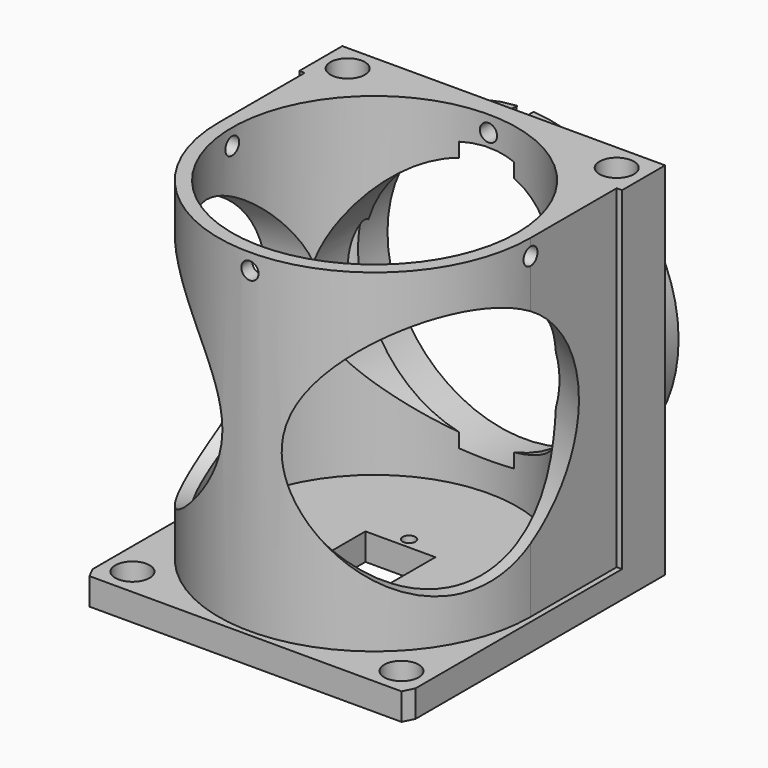
from build123d import *

# Parameters (mm, degrees)
PAD_DEPTH            = 67
SKETCH002_R          = 25.6
POCKET001_DEPTH      = 4
POCKET001_DEPTH_BACK = -100
SKETCH003_R          = 23
POCKET002_DEPTH      = 30
SKETCH004_R          = 23
POCKET003_DEPTH      = 29
SKETCH001_R          = 26.5
POCKET_DEPTH         = 62
SKETCH005_R          = 3.2
SKETCH005_R_2        = 1.2
SKETCH005_W          = 13
SKETCH005_H          = 24
POCKET004_DEPTH      = 67.001
POCKET005_DEPTH      = 62
SKETCH007_R          = 1.6
POCKET006_DEPTH      = 65.001
SKETCH008_R          = 1.6
POCKET007_DEPTH      = 60.001
SKETCH009_R          = 23
POCKET008_DEPTH      = 29
POCKET009_DEPTH      = 5


with BuildPart() as part:
    # Sketch → Pad (new body)
    with BuildSketch(Plane.XY):
        Polygon((-30, 35), (30, 35), (30, -28), (29, -30), (-29, -30), (-30, -28), align=None)
    extrude(amount=PAD_DEPTH)

    # Sketch002 → Pocket001 (cut, two sides)
    with BuildSketch(Plane(origin=(0, 30, 0), x_dir=(-1, 0, 0), z_dir=(0, 1, 0))) as pocket001_sk:
        with Locations((0, 36)):
            Circle(SKETCH002_R)
    extrude(amount=-POCKET001_DEPTH, mode=Mode.SUBTRACT)
    extrude(pocket001_sk.sketch, amount=-POCKET001_DEPTH_BACK, mode=Mode.SUBTRACT)

    # Sketch003 (on Face1 of Pocket001) → Pocket002 (cut)
    with BuildSketch(Plane(origin=(0, 35, 0), x_dir=(-1, 0, 0), z_dir=(0, 1, 0))):
        with Locations((0, 36)):
            Circle(SKETCH003_R)
    extrude(amount=-POCKET002_DEPTH, mode=Mode.SUBTRACT)

    # Sketch004 (on Face8 of Pocket002) → Pocket003 (cut)
    with BuildSketch(Plane(origin=(35.2, -17.6, 0), x_dir=(0.447214, 0.894427, 0), z_dir=(0.894427, -0.447214, 0))):
        with Locations((0, 36)):
            Circle(SKETCH004_R)
    extrude(amount=-POCKET003_DEPTH, mode=Mode.SUBTRACT)

    # Sketch001 (on Face4 of Pocket003) → Pocket (cut)
    with BuildSketch(Plane.XY.offset(67)):
        Circle(SKETCH001_R)
    extrude(amount=-POCKET_DEPTH, mode=Mode.SUBTRACT)

    # Sketch005 (on Face4 of Pocket) → Pocket004 (cut, through all)
    with BuildSketch(Plane.XY.offset(67)):
        with Locations((-25, 25)):
            Circle(SKETCH005_R)
        with Locations((25, 25)):
            Circle(SKETCH005_R)
        with Locations((25, -25)):
            Circle(SKETCH005_R)
        with Locations((-25, -25)):
            Circle(SKETCH005_R)
        with Locations((0, -20)):
            Circle(SKETCH005_R_2)
        with Locations((0, 8)):
            Circle(SKETCH005_R_2)
        with Locations((0, -6)):
            Rectangle(SKETCH005_W, SKETCH005_H)
    extrude(amount=-POCKET004_DEPTH, mode=Mode.SUBTRACT)

    # Sketch006 (on Face4 of Pocket004) → Pocket005 (cut)
    with BuildSketch(Plane.XY.offset(67)):
        with BuildLine():
            ThreePointArc((-29, 0), (0, -29), (29, 0))
            Line((29, 0), (29, 20))
            Line((29, 20), (31, 20))
            Line((31, -31), (31, 20))
            Line((-31, -31), (31, -31))
            Line((-31, 20), (-31, -31))
            Line((-29, 20), (-31, 20))
            Line((-29, 0), (-29, 20))
        make_face()
    extrude(amount=-POCKET005_DEPTH, mode=Mode.SUBTRACT)

    # Sketch007 (on Face1 of Pocket005) → Pocket006 (cut, through all)
    with BuildSketch(Plane(origin=(0, 35, 0), x_dir=(-1, 0, 0), z_dir=(0, 1, 0))):
        with Locations((0, 64)):
            Circle(SKETCH007_R)
    extrude(amount=-POCKET006_DEPTH, mode=Mode.SUBTRACT)

    # Sketch008 (on Face5 of Pocket006) → Pocket007 (cut, through all)
    with BuildSketch(Plane.YZ.offset(30)):
        with Locations((0, 64)):
            Circle(SKETCH008_R)
    extrude(amount=-POCKET007_DEPTH, mode=Mode.SUBTRACT)

    # Sketch009 (on Face7 of Pocket003) → Pocket008 (cut)
    with BuildSketch(Plane(origin=(-35.2, -17.6, 0), x_dir=(0.447214, -0.894427, 0), z_dir=(-0.894427, -0.447214, 0))):
        with Locations((0, 36)):
            Circle(SKETCH009_R)
    extrude(amount=-POCKET008_DEPTH, mode=Mode.SUBTRACT)

    # Sketch010 (on Face1 of Pocket008) → Pocket009 (cut)
    with BuildSketch(Plane(origin=(0, 35, 0), x_dir=(-1, 0, 0), z_dir=(0, 1, 0))):
        with BuildLine():
            ThreePointArc((13, 10.637626), (0, 64.5), (-13, 10.637626))
            Line((-13, 10.637626), (-13, 0))
            Line((-35, 0), (-13, 0))
            Line((-35, 70), (-35, 0))
            Line((35, 70), (-35, 70))
            Line((35, 0), (35, 70))
            Line((13, 0), (35, 0))
            Line((13, 10.637626), (13, 0))
        make_face()
    extrude(amount=-POCKET009_DEPTH, mode=Mode.SUBTRACT)


solid = part.part
